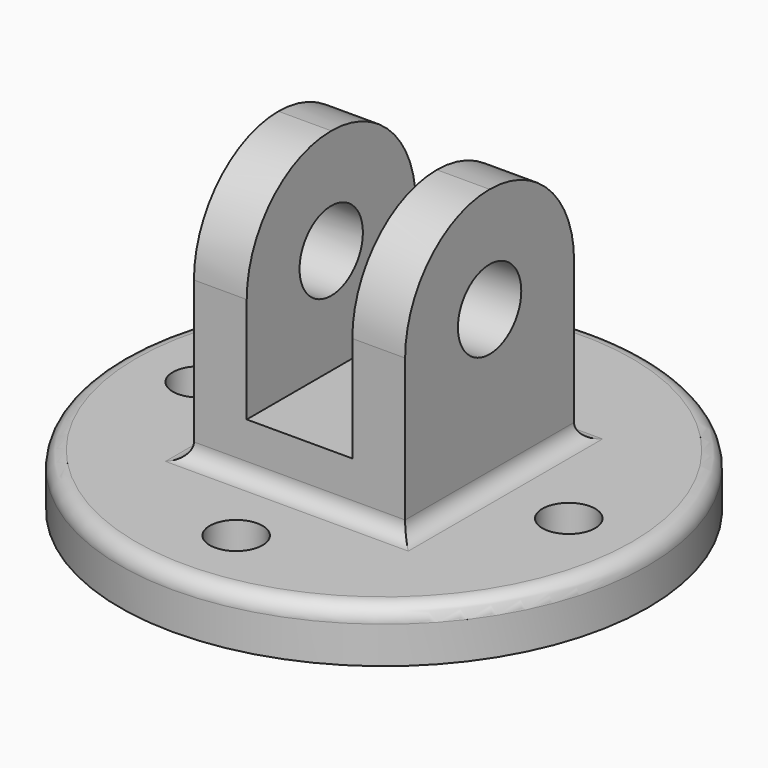
from build123d import *

# Parameters (mm, degrees)
F0_R     = 63.5
F0_R_2   = 6.35
F1_DEPTH = 12.7
F0_W     = 12.7
F0_H     = 50.8
F2_DEPTH = 76.2
F0_W_2   = 25.4
F3_DEPTH = 25.4
F4_R     = 9.525
F5_DEPTH = 88.901
F6_R     = 3.81


with BuildPart() as f1:
    # F0 (on Top) → F1 (new body)
    with BuildSketch(Plane.XY):
        Circle(F0_R)
        with Locations((0, -44.45)):
            Circle(F0_R_2, mode=Mode.SUBTRACT)
        with Locations((-44.45, 0)):
            Circle(F0_R_2, mode=Mode.SUBTRACT)
        Polygon((-25.4, -25.4), (-25.4, 25.4), (-12.7, 25.4), (12.7, 25.4), (25.4, 25.4), (25.4, -25.4), (12.7, -25.4), (-12.7, -25.4), align=None, mode=Mode.SUBTRACT)
        with Locations((44.45, 0)):
            Circle(F0_R_2, mode=Mode.SUBTRACT)
        with Locations((0, 44.45)):
            Circle(F0_R_2, mode=Mode.SUBTRACT)
    extrude(amount=F1_DEPTH)

    # F0 (on Top) → F2 (join)
    with BuildSketch(Plane.XY):
        with Locations((-19.05, 0)):
            Rectangle(F0_W, F0_H)
        with Locations((19.05, 0)):
            Rectangle(F0_W, F0_H)
    extrude(amount=F2_DEPTH)

    # F0 (on Top) → F3 (join)
    with BuildSketch(Plane.XY):
        Rectangle(F0_W_2, F0_H)
    extrude(amount=F3_DEPTH)

    # F4 (on face) → F5 (cut, through all)
    with BuildSketch(Plane.YZ.offset(25.4)):
        with Locations((0, 50.8)):
            Circle(F4_R)
        with BuildLine():
            ThreePointArc((-25.4, 50.8), (-17.9605122421, 68.7605122421), (0, 76.2))
            Line((0, 76.2), (-25.4, 76.2))
            Line((-25.4, 76.2), (-25.4, 50.8))
        make_face()
        with BuildLine():
            ThreePointArc((0, 76.2), (17.9605122421, 68.7605122421), (25.4, 50.8))
            Line((25.4, 50.8), (25.4, 76.2))
            Line((25.4, 76.2), (0, 76.2))
        make_face()
    extrude(amount=-F5_DEPTH, mode=Mode.SUBTRACT)

    # F6
    f6_edges = [f1.edges().sort_by_distance(p)[0] for p in [
        (25.4, 0, 12.7),
        (0, -25.4, 12.7),
        (-25.4, 0, 12.7),
        (0, 25.4, 12.7),
        (-63.5, 0, 12.7),
    ]]
    fillet(f6_edges, radius=F6_R)


solid = f1.part
